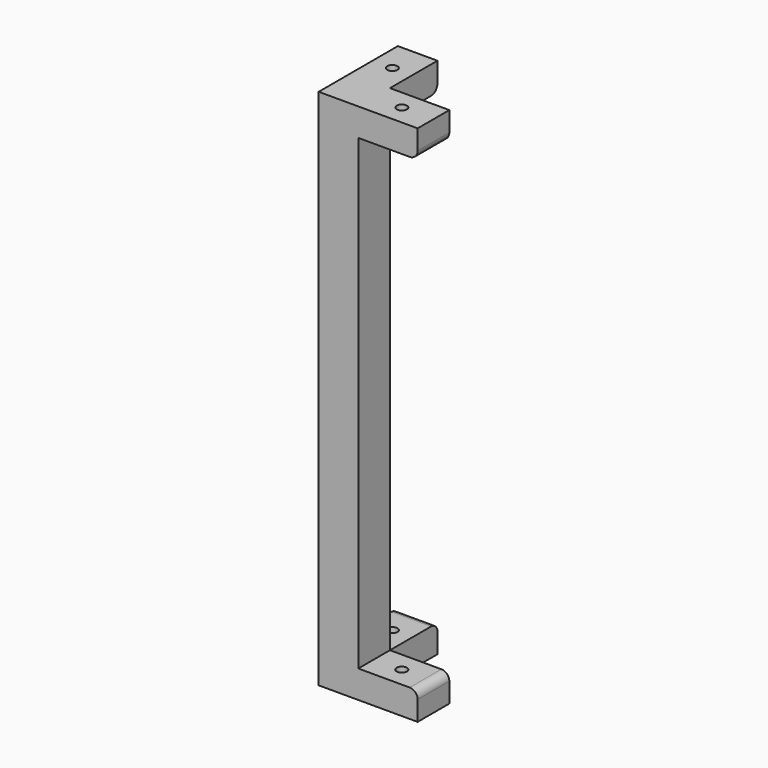
from build123d import *

# Parameters (mm, degrees)
CYLINDER004_R     = 1.3
CYLINDER004_DEPTH = 146
CYLINDER_R        = 1.3
CYLINDER_DEPTH    = 146
BOX063_W          = 10
BOX063_H          = 10
BOX063_DEPTH      = 132
BOX064_W          = 15
BOX064_H          = 10
BOX064_DEPTH      = 7
BOX066_W          = 10
BOX066_H          = 15
BOX066_DEPTH      = 7
BOX062_W          = 10
BOX062_H          = 15
BOX062_DEPTH      = 7
BOX065_W          = 15
BOX065_H          = 10
BOX065_DEPTH      = 7
FILLET_R          = 2


with BuildPart() as cilindro004:
    # Cylinder004 → Cylinder004 (new body)
    with BuildSketch(Plane(origin=(5, 17, 8), x_dir=(1, 0, 0), z_dir=(0, 0, 1))):
        Circle(CYLINDER004_R)
    extrude(amount=CYLINDER004_DEPTH)


with BuildPart() as cilindro:
    # Cylinder → Cylinder (new body)
    with BuildSketch(Plane(origin=(17, 5, 8), x_dir=(1, 0, 0), z_dir=(0, 0, 1))):
        Circle(CYLINDER_R)
    extrude(amount=CYLINDER_DEPTH)


with BuildPart() as cubo026:
    # Box063 → Box063 (new body)
    with BuildSketch(Plane.XY.offset(15)):
        with Locations((5, 5)):
            Rectangle(BOX063_W, BOX063_H)
    extrude(amount=BOX063_DEPTH)


with BuildPart() as cubo027:
    # Box064 → Box064 (new body)
    with BuildSketch(Plane(origin=(10, 0, 140), x_dir=(1, 0, 0), z_dir=(0, 0, 1))):
        with Locations((7.5, 5)):
            Rectangle(BOX064_W, BOX064_H)
    extrude(amount=BOX064_DEPTH)


with BuildPart() as cubo029:
    # Box066 → Box066 (new body)
    with BuildSketch(Plane(origin=(0, 10, 15), x_dir=(1, 0, 0), z_dir=(0, 0, 1))):
        with Locations((5, 7.5)):
            Rectangle(BOX066_W, BOX066_H)
    extrude(amount=BOX066_DEPTH)


with BuildPart() as cubo025:
    # Box062 → Box062 (new body)
    with BuildSketch(Plane(origin=(0, 10, 140), x_dir=(1, 0, 0), z_dir=(0, 0, 1))):
        with Locations((5, 7.5)):
            Rectangle(BOX062_W, BOX062_H)
    extrude(amount=BOX062_DEPTH)


with BuildPart() as obj1:
    # Box065 → Box065 (new body)
    with BuildSketch(Plane(origin=(10, 0, 15), x_dir=(1, 0, 0), z_dir=(0, 0, 1))):
        with Locations((7.5, 5)):
            Rectangle(BOX065_W, BOX065_H)
    extrude(amount=BOX065_DEPTH)

    # Fusion008: union Cubo026, Cubo027, Cubo029, Cubo025
    add(cubo026.part)
    add(cubo027.part)
    add(cubo029.part)
    add(cubo025.part)

    # Fillet
    fillet_edges = [obj1.edges().sort_by_distance(p)[0] for p in [
        (25, 5, 22),
        (25, 5, 140),
        (5, 25, 22),
        (5, 25, 140),
    ]]
    fillet(fillet_edges, radius=FILLET_R)

    # Cut015: cut Cilindro
    add(cilindro.part, mode=Mode.SUBTRACT)

    # Cut018: cut Cilindro004
    add(cilindro004.part, mode=Mode.SUBTRACT)


solid = obj1.part
